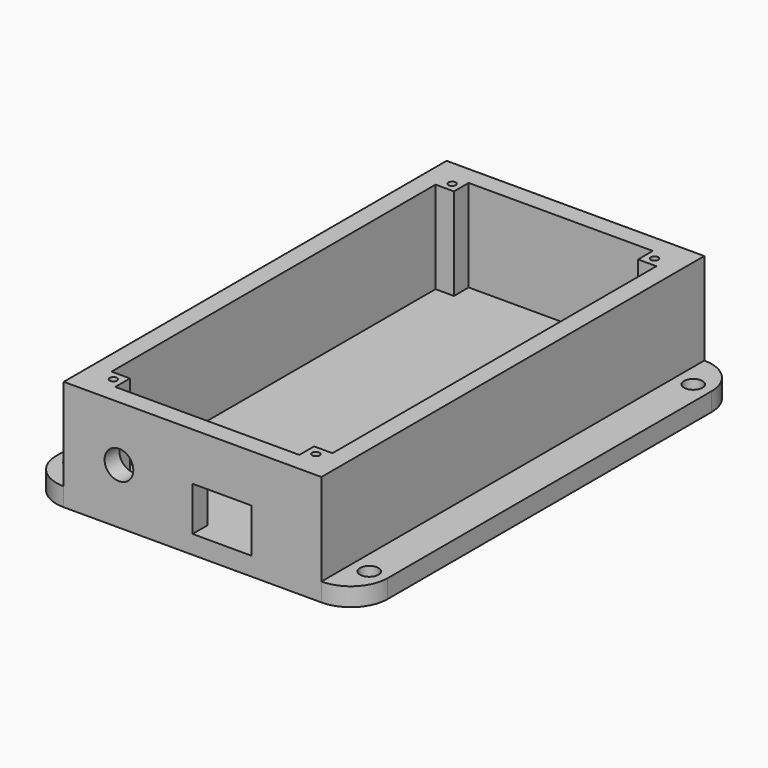
from build123d import *

# Parameters (mm, degrees)
SKETCH001_W   = 70
SKETCH001_H   = 30
SKETCH001_R   = 3.9
SKETCH001_W_2 = 16
SKETCH001_H_2 = 17
PAD001_DEPTH  = 5
SKETCH002_W   = 70
SKETCH002_H   = 30
PAD002_DEPTH  = 5
SKETCH003_W   = 120
SKETCH003_H   = 30
PAD003_DEPTH  = 5
SKETCH004_W   = 120
SKETCH004_H   = 30
PAD004_DEPTH  = 5
SKETCH005_W   = 5
SKETCH005_H   = 5
SKETCH005_R   = 1
PAD005_DEPTH  = 30
SKETCH007_W   = 5
SKETCH007_H   = 5
SKETCH007_R   = 1
PAD006_DEPTH  = 30
SKETCH008_W   = 5
SKETCH008_H   = 5
SKETCH008_R   = 1
PAD007_DEPTH  = 30
SKETCH009_W   = 5
SKETCH009_H   = 5
SKETCH009_R   = 1
PAD008_DEPTH  = 30
SKETCH_R      = 2.5
PAD_DEPTH     = 5


with BuildPart() as body001:
    # Sketch001 → Pad001 (new body)
    with BuildSketch(Plane.XZ):
        with Locations((0, 15)):
            Rectangle(SKETCH001_W, SKETCH001_H)
        with Locations((-20, 15)):
            Circle(SKETCH001_R, mode=Mode.SUBTRACT)
        with Locations((8, 8.5)):
            Rectangle(SKETCH001_W_2, SKETCH001_H_2, mode=Mode.SUBTRACT)
    extrude(amount=PAD001_DEPTH)


with BuildPart() as body001_1:
    # Body001 placement: moved
    add(body001.part.moved(Location((0, -60, 0))))


with BuildPart() as body002:
    # Sketch002 → Pad002 (new body)
    with BuildSketch(Plane.XZ):
        with Locations((-105, 15)):
            Rectangle(SKETCH002_W, SKETCH002_H)
    extrude(amount=PAD002_DEPTH)


with BuildPart() as body002_1:
    # Body002 placement: moved
    add(body002.part.moved(Location((105, 65, 0))))


with BuildPart() as body003:
    # Sketch003 → Pad003 (new body)
    with BuildSketch(Plane.YZ):
        with Locations((0, 15)):
            Rectangle(SKETCH003_W, SKETCH003_H)
    extrude(amount=PAD003_DEPTH)


with BuildPart() as body003_1:
    # Body003 placement: moved
    add(body003.part.moved(Location((30, 0, 0))))


with BuildPart() as body004:
    # Sketch004 → Pad004 (new body)
    with BuildSketch(Plane.YZ):
        with Locations((0, 15)):
            Rectangle(SKETCH004_W, SKETCH004_H)
    extrude(amount=PAD004_DEPTH)


with BuildPart() as body004_1:
    # Body004 placement: moved
    add(body004.part.moved(Location((-35, 0, 0))))


with BuildPart() as hole_in_the_right_frame:
    # Sketch005 → Pad005 (new body)
    with BuildSketch(Plane.XY):
        with Locations((27.5, 42.5)):
            Rectangle(SKETCH005_W, SKETCH005_H)
        with Locations((27.5, 42.5)):
            Circle(SKETCH005_R, mode=Mode.SUBTRACT)
    extrude(amount=PAD005_DEPTH)


with BuildPart() as hole_in_the_right_frame_1:
    # Body005 placement: moved
    add(hole_in_the_right_frame.part.moved(Location((0, 15, 0))))


with BuildPart() as hole_in_the_left_frame:
    # Sketch007 → Pad006 (new body)
    with BuildSketch(Plane.XY):
        with Locations((-27.5, 42.5)):
            Rectangle(SKETCH007_W, SKETCH007_H)
        with Locations((-27.5, 42.5)):
            Circle(SKETCH007_R, mode=Mode.SUBTRACT)
    extrude(amount=PAD006_DEPTH)


with BuildPart() as hole_in_the_left_frame_1:
    # Body006 placement: moved
    add(hole_in_the_left_frame.part.moved(Location((0, 15, 0))))


with BuildPart() as hole_in_the_left_frame1:
    # Sketch008 → Pad007 (new body)
    with BuildSketch(Plane.XY):
        with Locations((-27.5, -42.5)):
            Rectangle(SKETCH008_W, SKETCH008_H)
        with Locations((-27.5, -42.5)):
            Circle(SKETCH008_R, mode=Mode.SUBTRACT)
    extrude(amount=PAD007_DEPTH)


with BuildPart() as hole_in_the_left_frame1_1:
    # Body007 placement: moved
    add(hole_in_the_left_frame1.part.moved(Location((0, -15, 0))))


with BuildPart() as body008:
    # Sketch009 → Pad008 (new body)
    with BuildSketch(Plane.XY):
        with Locations((27.5, -42.5)):
            Rectangle(SKETCH009_W, SKETCH009_H)
        with Locations((27.5, -42.5)):
            Circle(SKETCH009_R, mode=Mode.SUBTRACT)
    extrude(amount=PAD008_DEPTH)


with BuildPart() as body008_1:
    # Body008 placement: moved
    add(body008.part.moved(Location((0, -15, 0))))


with BuildPart() as fusion:
    # Sketch → Pad (new body)
    with BuildSketch(Plane.XY):
        with BuildLine():
            Line((-35.022389, 65), (35, 65))
            ThreePointArc((45, 55), (42.071068, 62.071068), (35, 65))
            Line((45, 55), (45, -55))
            ThreePointArc((35, -65), (42.071068, -62.071068), (45, -55))
            Line((35, -65), (-35, -65))
            ThreePointArc((-45, -55), (-42.071068, -62.071068), (-35, -65))
            Line((-45, -55), (-45, 55.022389))
            ThreePointArc((-35.022389, 65), (-42.077625, 62.077625), (-45, 55.022389))
        make_face()
        with Locations((40, -55)):
            Circle(SKETCH_R, mode=Mode.SUBTRACT)
        with Locations((40, 55)):
            Circle(SKETCH_R, mode=Mode.SUBTRACT)
        with Locations((-40, -55)):
            Circle(SKETCH_R, mode=Mode.SUBTRACT)
        with Locations((-40, 55)):
            Circle(SKETCH_R, mode=Mode.SUBTRACT)
    extrude(amount=PAD_DEPTH)

    # Fusion: union Body001, Body002, Body003, Body004, Hole in the right frame, Hole in the left frame, Hole in the left frame1, Body008
    add(body001_1.part)
    add(body002_1.part)
    add(body003_1.part)
    add(body004_1.part)
    add(hole_in_the_right_frame_1.part)
    add(hole_in_the_left_frame_1.part)
    add(hole_in_the_left_frame1_1.part)
    add(body008_1.part)


solid = fusion.part
